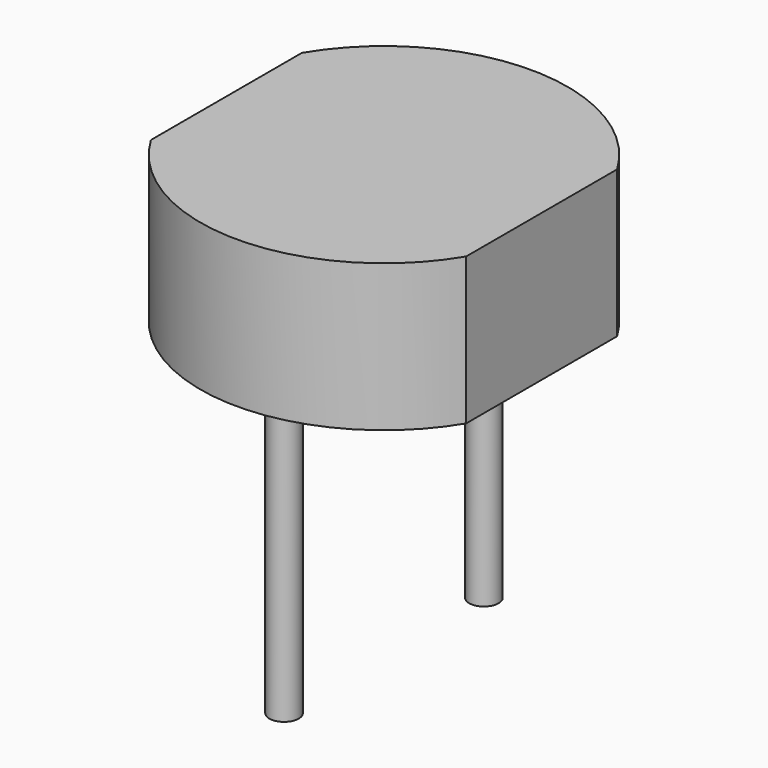
from build123d import *

# Parameters (mm, degrees)
F1_DEPTH = 2
F2_R     = 0.2


with BuildPart() as f1:
    # F0 (on Top) → F1 (new body)
    with BuildSketch(Plane.XY):
        with BuildLine():
            Line((-2.145, 1.2841242152), (-2.145, -1.2841242152))
            ThreePointArc((-2.145, -1.2841242152), (0, -2.5), (2.145, -1.2841242152))
            Line((2.145, -1.2841242152), (2.145, 1.2841242152))
            ThreePointArc((2.145, 1.2841242152), (0, 2.5), (-2.145, 1.2841242152))
        make_face()
    extrude(amount=F1_DEPTH)

    # F4: sweep along a path in F3
    with BuildLine(Plane.XZ) as f4_path:
        Line((0, 0), (0, -4))
    # F2 (on face) → F4 (sweep)
    with BuildSketch(Plane(origin=(0, 0, 0), x_dir=(1, 0, 0), z_dir=(0, 0, -1))):
        with Locations((0, -1.7)):
            Circle(F2_R)
        with Locations((0, 1.7)):
            Circle(F2_R)
    sweep(path=f4_path.line)


solid = f1.part
